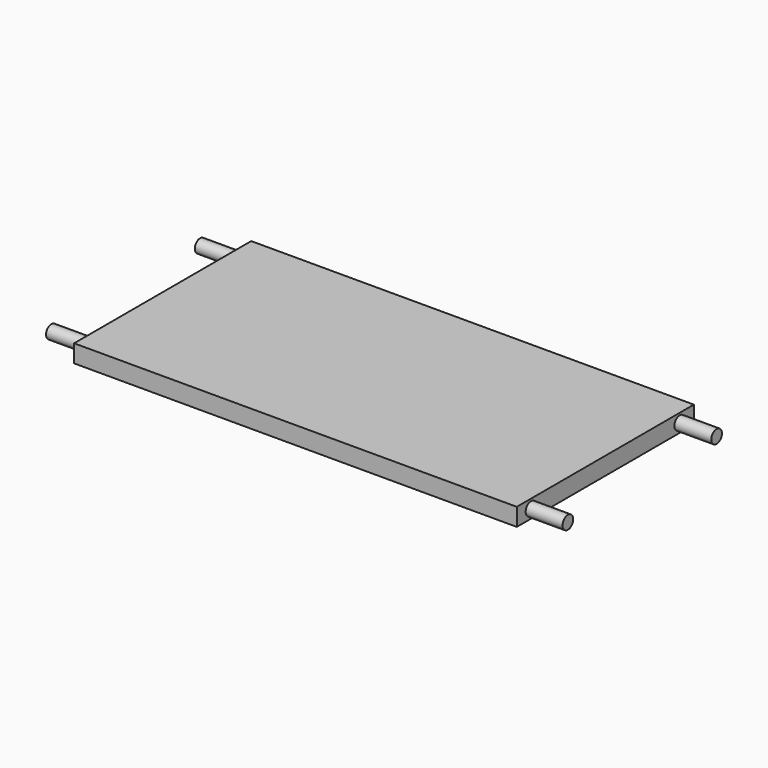
from build123d import *

# Parameters (mm, degrees)
F0_W     = 300
F0_H     = 150
F1_DEPTH = 12
F2_R     = 4.5
F3_DEPTH = 25
F4_R     = 4.5
F5_DEPTH = 25


with BuildPart() as f1:
    # F0 (on Top) → F1 (new body)
    with BuildSketch(Plane.XY):
        Rectangle(F0_W, F0_H)
    extrude(amount=F1_DEPTH)

    # F2 (on face) → F3 (join)
    with BuildSketch(Plane.YZ.offset(150)):
        with Locations((-63, 6)):
            Circle(F2_R)
        with Locations((63, 6)):
            Circle(F2_R)
    extrude(amount=F3_DEPTH)

    # F4 (on face) → F5 (join)
    with BuildSketch(Plane(origin=(-150, 0, 0), x_dir=(0, -1, 0), z_dir=(-1, 0, 0))):
        with Locations((-63, 6)):
            Circle(F4_R)
        with Locations((63, 6)):
            Circle(F4_R)
    extrude(amount=F5_DEPTH)


solid = f1.part
